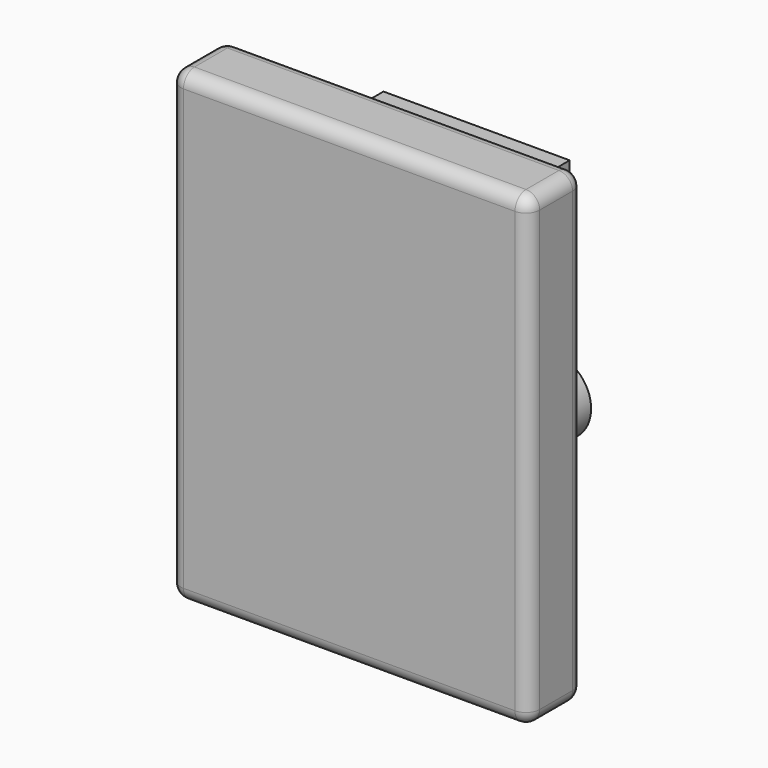
from build123d import *

# Parameters (mm, degrees)
F0_W     = 131.00408
F0_H     = 170.469575
F1_DEPTH = 25
F2_R     = 5
F3_W     = 12.748081
F3_H     = 71.06166
F3_W_2   = 67.964261
F3_H_2   = 26.206454
F3_R     = 13.48426
F4_DEPTH = 25


with BuildPart() as f1:
    # F0 (on Front) → F1 (new body)
    with BuildSketch(Plane.XZ):
        with Locations((-29.61237, -33.275995)):
            Rectangle(F0_W, F0_H)
    extrude(amount=F1_DEPTH)

    # F2
    f2_edges = [f1.edges().sort_by_distance(p)[0] for p in [
        (-95.11441, 0, -33.275995),
        (-29.61237, 0, -118.510783),
        (35.88967, 0, -33.275995),
        (-29.61237, 0, 51.958792),
        (-95.11441, -12.5, 51.958792),
        (-29.61237, -25, 51.958792),
        (35.88967, -12.5, 51.958792),
        (-29.61237, -25, -118.510783),
        (-95.11441, -25, -33.275995),
        (35.88967, -25, -33.275995),
        (35.88967, -12.5, -118.510783),
        (-95.11441, -12.5, -118.510783),
    ]]
    fillet(f2_edges, radius=F2_R)


with BuildPart() as f4:
    # F3 (on face) → F4 (new body)
    with BuildSketch(Plane(origin=(0, 0, 0), x_dir=(-1, 0, 0), z_dir=(0, 1, 0))):
        with Locations((39.344786, -48.811881)):
            Rectangle(F3_W, F3_H)
        with Locations((23.131093, 23.415749)):
            Rectangle(F3_W_2, F3_H_2)
        with Locations((-5.196326, -40.719982)):
            Circle(F3_R)
    extrude(amount=F4_DEPTH)


solid = Compound([f1.part, f4.part])
